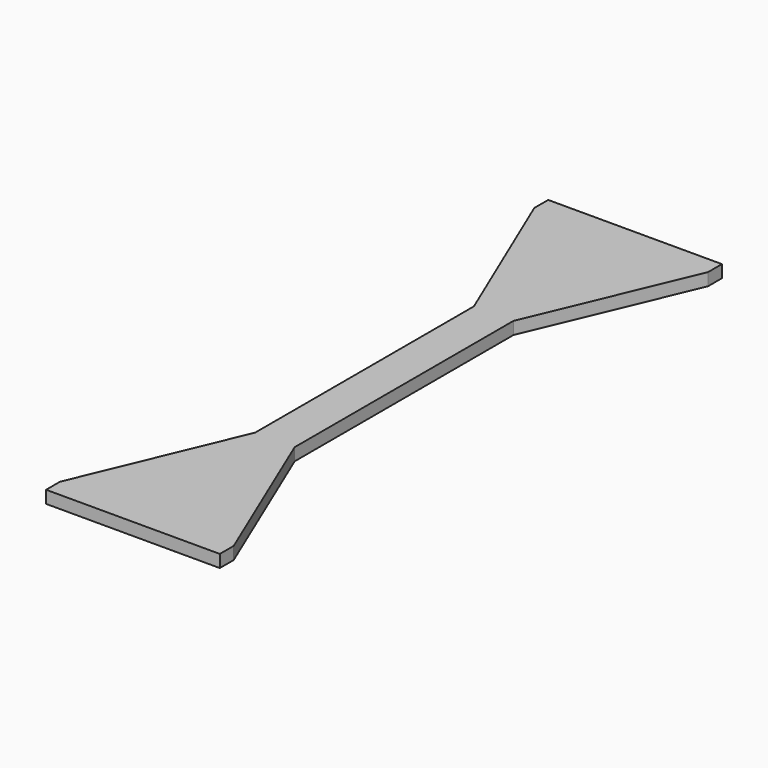
from build123d import *

# Parameters (mm, degrees)
F0_W     = 2.6543
F0_H     = 36.782036
F1_DEPTH = 1.6764


with BuildPart() as f1:
    # F0 (on Top) → F1 (new body)
    with BuildSketch(Plane.XY):
        Polygon((0, 41.318396), (0, 17.543996), (2.6543, 17.543996), (11.684, 38.981596), (11.684, 41.318396), align=None)
        Polygon((-2.6543, 17.543996), (0, 17.543996), (0, 41.318396), (-11.684, 41.318396), (-11.684, 38.981596), align=None)
        with Locations((1.32715, -0.847022)):
            Rectangle(F0_W, F0_H)
        with Locations((-1.32715, -0.847022)):
            Rectangle(F0_W, F0_H)
        Polygon((0, -19.336804), (0, -19.23804), (-2.6543, -19.23804), (-11.684, -40.774404), (-11.684, -43.111204), (0, -43.111204), align=None)
        Polygon((2.6543, -19.23804), (0, -19.23804), (0, -19.336804), (0, -43.111204), (11.684, -43.111204), (11.684, -40.774404), align=None)
    extrude(amount=F1_DEPTH)


solid = f1.part
